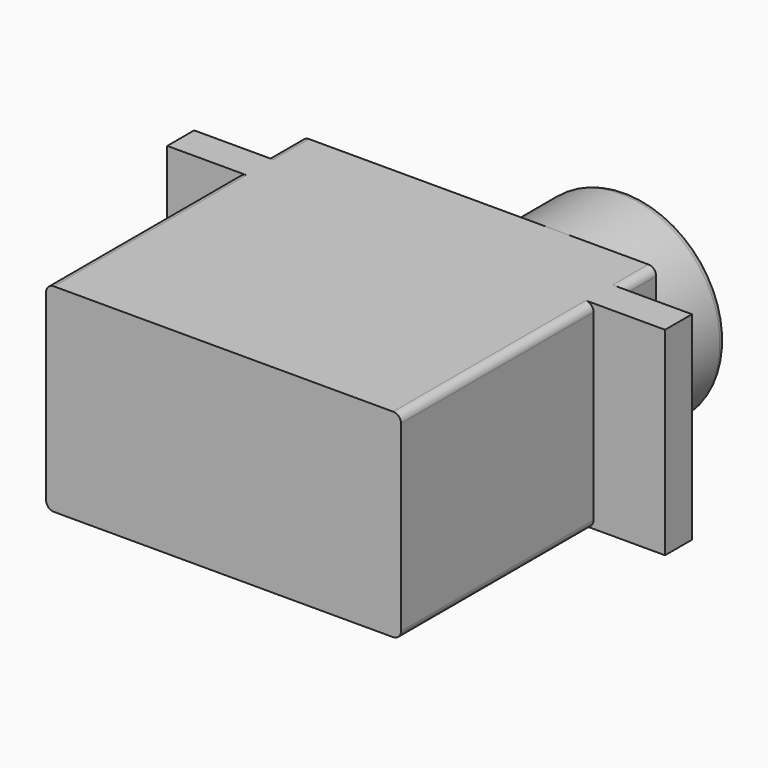
from build123d import *

# Parameters (mm, degrees)
F3_DEPTH  = 12.7
F4_R      = 0.5
F6_R      = 6.35
F7_DEPTH  = 5.6
F8_R      = 0.5
F9_R      = 1.6747204535
F10_DEPTH = 2.95


with BuildPart() as f3:
    # F2 (on Top) → F3 (new body)
    with BuildSketch(Plane.XY):
        Polygon((11.35, 20.4), (-11.35, 20.4), (-11.35, 17.55), (-15.92, 17.55), (-15.92, 15.4), (-11.35, 15.4), (-11.35, 0), (11.35, 0), (11.35, 15.4), (15.92, 15.4), (15.92, 17.55), (11.35, 17.55), align=None)
    extrude(amount=F3_DEPTH)

    # F4
    f4_edges = [f3.edges().sort_by_distance(p)[0] for p in [
        (11.35, 7.7, 12.7),
        (11.35, 18.975, 12.7),
        (11.35, 18.975, 0),
        (11.35, 7.7, 0),
        (-11.35, 18.975, 12.7),
        (-11.35, 7.7, 12.7),
        (-11.35, 18.975, 0),
        (-11.35, 7.7, 0),
    ]]
    fillet(f4_edges, radius=F4_R)

    # F6 (on offset) → F7 (join)
    with BuildSketch(Plane(origin=(0, 20.4, 0), x_dir=(-1, 0, 0), z_dir=(0, 1, 0))):
        with Locations((-5, 6.35)):
            Circle(F6_R)
    extrude(amount=F7_DEPTH)

    # F8
    f8_edges = [f3.edges().sort_by_distance(p)[0] for p in [
        (11.35, 26, 6.35),
    ]]
    fillet(f8_edges, radius=F8_R)

    # F9 (on face) → F10 (join)
    with BuildSketch(Plane(origin=(0, 26, 0), x_dir=(-1, 0, 0), z_dir=(0, 1, 0))):
        with Locations((-5, 6.35)):
            Circle(F9_R)
    extrude(amount=F10_DEPTH)


solid = f3.part
